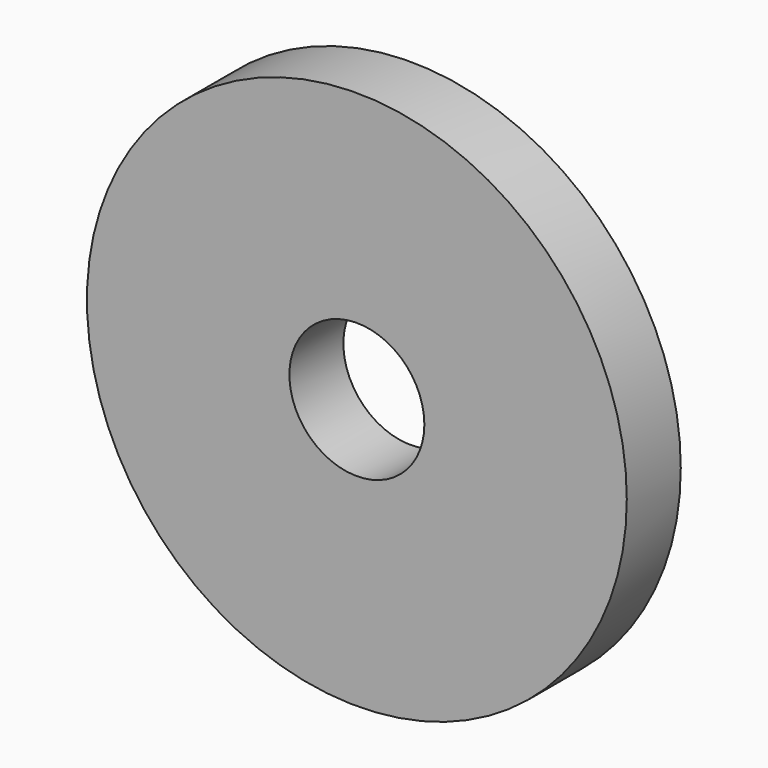
from build123d import *

# Parameters (mm, degrees)
F0_R     = 25.4
F0_R_2   = 6.35
F1_DEPTH = 3.175
F2_T     = -2.54


with BuildPart() as f1:
    # F0 (on Front) → F1 (new body, symmetric)
    with BuildSketch(Plane.XZ):
        Circle(F0_R)
        Circle(F0_R_2, mode=Mode.SUBTRACT)
    extrude(amount=F1_DEPTH, both=True)

    # F2
    f2_openings = [f1.faces().sort_by_distance(p)[0] for p in [
        (-24.68158, 3.175, 0),
    ]]
    offset(amount=F2_T, openings=f2_openings)


solid = f1.part
